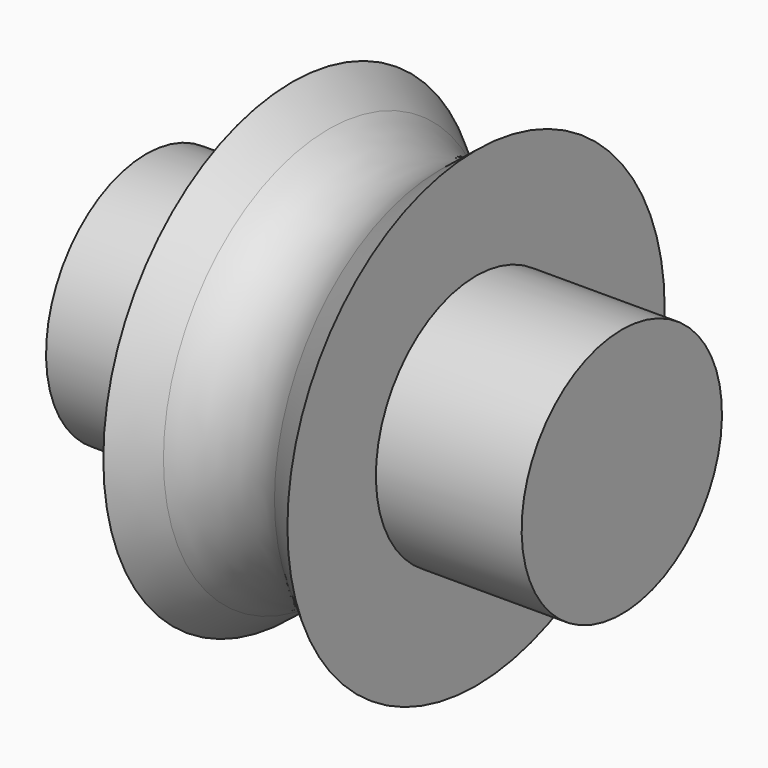
from build123d import *


with BuildPart() as f1:
    # F0 (on Front) → F1 (revolve)
    with BuildSketch(Plane.XZ):
        with BuildLine():
            Line((-25.6159, 9.616317), (-25.6159, -3.871083))
            Line((-25.6159, -3.871083), (25.6159, -3.871083))
            Line((25.6159, -3.871083), (25.6159, 9.616317))
            Line((25.6159, 9.616317), (9.916342, 9.616317))
            Line((9.916342, 9.616317), (9.916342, 21.528917))
            Line((9.916342, 21.528917), (5.979342, 18.353917))
            ThreePointArc((5.979342, 18.353917), (0, 16.243301), (-5.979342, 18.353917))
            Line((-5.979342, 18.353917), (-9.916342, 21.528917))
            Line((-9.916342, 21.528917), (-9.916342, 9.616317))
            Line((-9.916342, 9.616317), (-25.6159, 9.616317))
        make_face()
    revolve(axis=Axis((0, 0, -3.871083), (1, 0, 0)))


solid = f1.part
